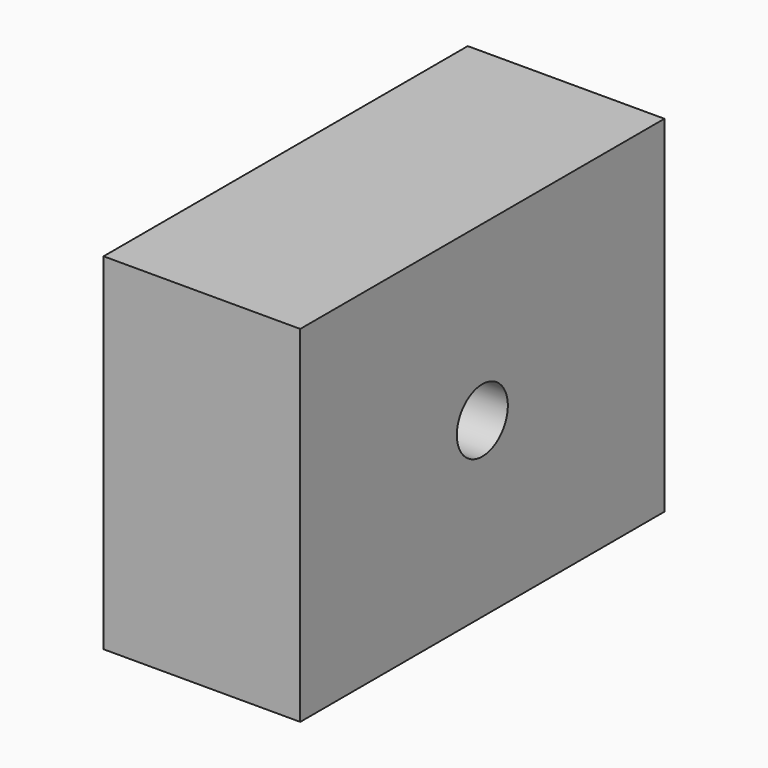
from build123d import *

# Parameters (mm, degrees)
F0_W     = 10.8
F0_H     = 25
F1_DEPTH = 19
F3_D     = 3.5
F3_DEPTH = 20


with BuildPart() as f1:
    # F0 (on Top) → F1 (new body)
    with BuildSketch(Plane.XY):
        with Locations((-1.690517, -19.583154)):
            Rectangle(F0_W, F0_H)
    extrude(amount=F1_DEPTH)

    # F3
    with Locations(Plane.YZ.offset(3.709483)):
        with Locations((-19.583154, 9.5)):
            Hole(F3_D / 2, depth=F3_DEPTH)


solid = f1.part
